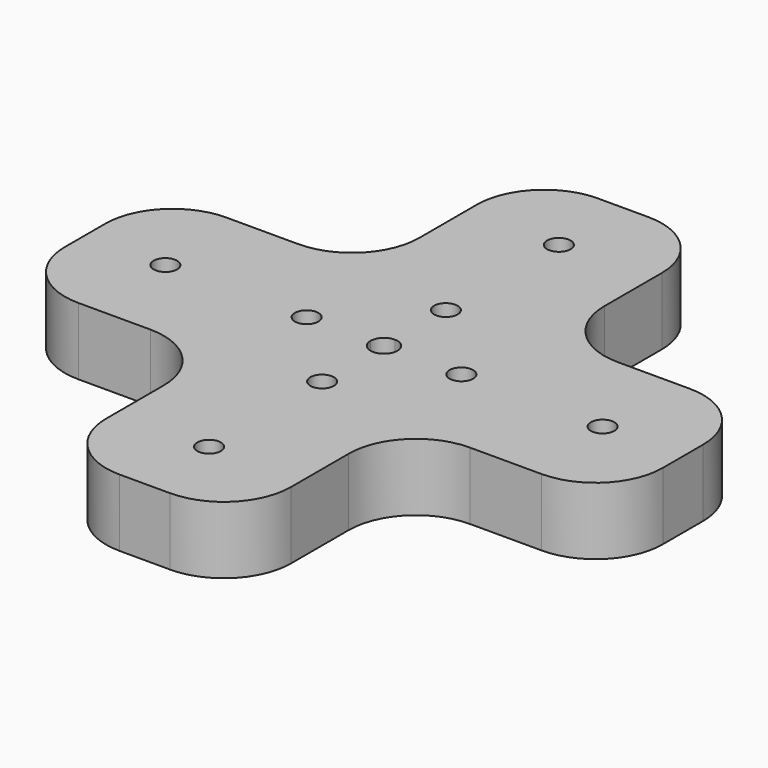
from build123d import *

# Parameters (mm, degrees)
F0_R     = 3.5
F1_DEPTH = 20
F2_R     = 20


with BuildPart() as f1:
    # F0 (on Top) → F1 (new body)
    with BuildSketch(Plane.XY):
        with BuildLine():
            Line((68.9, 27.5), (27.5, 27.5))
            Line((27.5, 27.5), (27.5, 68.9))
            ThreePointArc((27.5, 68.9), (21.642136, 83.042136), (7.5, 88.9))
            Line((7.5, 88.9), (-7.5, 88.9))
            ThreePointArc((-7.5, 88.9), (-21.642136, 83.042136), (-27.5, 68.9))
            Line((-27.5, 68.9), (-27.5, 27.5))
            Line((-27.5, 27.5), (-68.9, 27.5))
            ThreePointArc((-68.9, 27.5), (-83.042136, 21.642136), (-88.9, 7.5))
            Line((-88.9, 7.5), (-88.9, -7.5))
            ThreePointArc((-88.9, -7.5), (-83.042136, -21.642136), (-68.9, -27.5))
            Line((-68.9, -27.5), (-27.5, -27.5))
            Line((-27.5, -27.5), (-27.5, -68.9))
            ThreePointArc((-27.5, -68.9), (-21.642136, -83.042136), (-7.5, -88.9))
            Line((-7.5, -88.9), (7.5, -88.9))
            ThreePointArc((7.5, -88.9), (21.642136, -83.042136), (27.5, -68.9))
            Line((27.5, -68.9), (27.5, -27.5))
            Line((27.5, -27.5), (68.9, -27.5))
            ThreePointArc((68.9, -27.5), (83.042136, -21.642136), (88.9, -7.5))
            Line((88.9, -7.5), (88.9, 7.5))
            ThreePointArc((88.9, 7.5), (83.042136, 21.642136), (68.9, 27.5))
        make_face()
        with Locations((0, -65)):
            Circle(F0_R, mode=Mode.SUBTRACT)
        with Locations((0, -23)):
            Circle(F0_R, mode=Mode.SUBTRACT)
        with Locations((-65, 0)):
            Circle(F0_R, mode=Mode.SUBTRACT)
        with Locations((-23, 0)):
            Circle(F0_R, mode=Mode.SUBTRACT)
        with BuildLine():
            ThreePointArc((4, 0), (2.828427, -2.828427), (0, -4))
            ThreePointArc((0, -4), (-2.828427, -2.828427), (-4, 0))
            ThreePointArc((-4, 0), (-2.828427, 2.828427), (0, 4))
            ThreePointArc((0, 4), (2.828427, 2.828427), (4, 0))
        make_face(mode=Mode.SUBTRACT)
        with Locations((23, 0)):
            Circle(F0_R, mode=Mode.SUBTRACT)
        with Locations((0, 23)):
            Circle(F0_R, mode=Mode.SUBTRACT)
        with Locations((65, 0)):
            Circle(F0_R, mode=Mode.SUBTRACT)
        with Locations((0, 65)):
            Circle(F0_R, mode=Mode.SUBTRACT)
    extrude(amount=F1_DEPTH)

    # F2
    f2_edges = [f1.edges().sort_by_distance(p)[0] for p in [
        (27.5, 27.5, 10),
        (27.5, -27.5, 10),
        (-27.5, -27.5, 10),
        (-27.5, 27.5, 10),
    ]]
    fillet(f2_edges, radius=F2_R)


solid = f1.part
